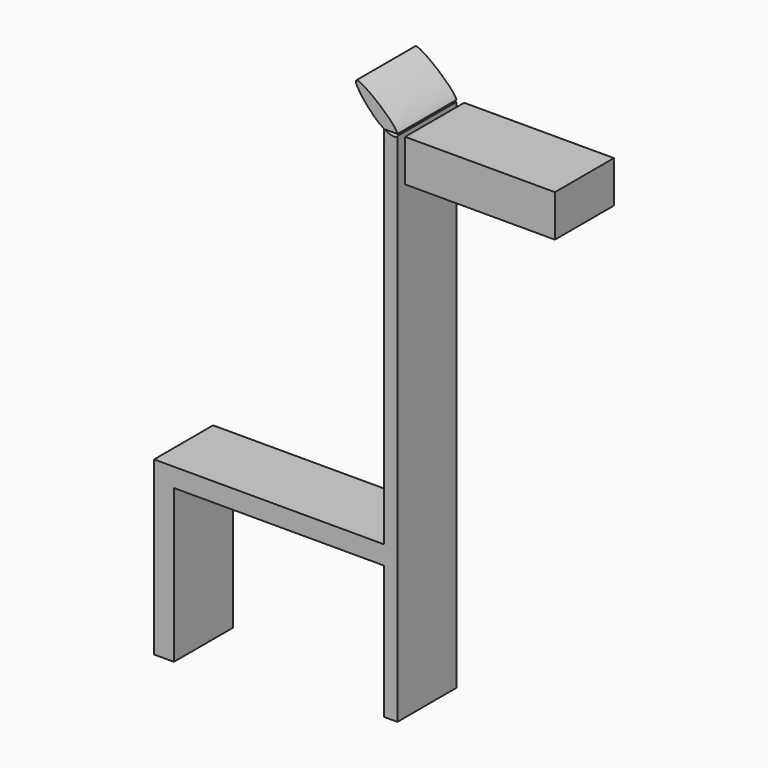
from build123d import *

# Parameters (mm, degrees)
F0_W     = 2.2751665674
F0_H     = 34.6962790936
F0_H_2   = 23.6996444874
F0_H_3   = 2.4647631217
F0_H_4   = 22.9412544286
F0_W_2   = 3.4127477556
F0_H_5   = 26.3540040469
F1_DEPTH = 12.7
F0_W_3   = 1.8959725276
F0_H_6   = 7.2046890855


with BuildPart() as f1:
    # F0 (on Front) → F1 (new body)
    with BuildSketch(Plane.XZ):
        with Locations((8.1526779104, 45.0293244794)):
            Rectangle(F0_W, F0_H)
        with Locations((8.1526779104, 15.8313626889)):
            Rectangle(F0_W, F0_H_2)
        with BuildLine():
            Line((7.0150946267, 62.3774640262), (9.2902611941, 62.3774640262))
            Line((9.2902611941, 62.3774640262), (9.2902611941, 64.1605353109))
            add(Edge.make_bspline(
                [(9.2902611941, 64.1605353109), (9.1335618574, 63.6997464733), (8.1491547275, 63.7852449602), (7.0150946267, 64.4630342722)],
                knots=[0.8245103323, 0.8245103323, 0.8245103323, 0.8245103323, 1, 1, 1, 1], degree=3))
            Line((7.0150946267, 64.4630342722), (7.0150946267, 62.3774640262))
        make_face()
        with Locations((8.1526779104, 2.7491588844)):
            Rectangle(F0_W, F0_H_3)
        Polygon((7.0150946267, -1.7063744599), (9.2902611941, -1.7063744599), (9.2902611941, 1.5167773236), (7.0150946267, 1.5167773236), (-32.6107107103, 1.5167773236), (-32.6107107103, -1.7063744599), (-29.1979629546, -1.7063744599), align=None)
        with Locations((8.1526779104, -13.1770016742)):
            Rectangle(F0_W, F0_H_4)
        with Locations((-30.9043368325, -14.8833764833)):
            Rectangle(F0_W_2, F0_H_5)
    extrude(amount=F1_DEPTH)


with BuildPart() as f1b:
    # F0 (on Front) → F1, piece 2 (new body)
    with BuildSketch(Plane.XZ):
        with BuildLine():
            Line((18.3322279583, 64.4630342722), (16.5536516477, 64.4630342722))
            ThreePointArc((16.5536516477, 64.4630342722), (16.3197251146, 60.7995982546), (19.5371083055, 62.567062676))
            ThreePointArc((19.5371083055, 62.567062676), (19.2104042244, 63.6902773643), (18.3322279583, 64.4630342722))
        make_face()
        with BuildLine():
            Line((16.5536516477, 64.4630342722), (12.5134121627, 64.4630342722))
            Line((12.5134121627, 64.4630342722), (12.5134121627, 57.2583451867))
            Line((12.5134121627, 57.2583451867), (31.0308237794, 57.2583451867))
            add(Edge.make_bspline(
                [(28.0593987554, 59.1532960534), (28.1995493071, 58.4423556179), (29.5783060091, 57.4592646397), (31.0308237794, 57.2583451867)],
                knots=[0, 0, 0, 0, 0.2197954008, 0.2197954008, 0.2197954008, 0.2197954008], degree=3))
            add(Edge.make_bspline(
                [(32.0415794849, 57.2583451867), (33.6607920173, 57.5084545772), (36.5329207315, 60.8323030514), (30.1164253974, 60.8116762265), (27.9300518274, 59.8094330449), (28.0593987554, 59.1532960534)],
                knots=[0.2709134065, 0.2709134065, 0.2709134065, 0.2709134065, 0.520871318, 0.7971477133, 1, 1, 1, 1], degree=3))
            Line((32.0415794849, 57.2583451867), (36.4026576281, 57.2583451867))
            Line((36.4026576281, 57.2583451867), (36.4026576281, 64.4630342722))
            Line((36.4026576281, 64.4630342722), (18.3322279583, 64.4630342722))
            ThreePointArc((18.3322279583, 64.4630342722), (19.2104042244, 63.6902773643), (19.5371083055, 62.567062676))
            ThreePointArc((19.5371083055, 62.567062676), (16.3197251146, 60.7995982546), (16.5536516477, 64.4630342722))
        make_face()
        with Locations((11.5654258989, 60.8606897295)):
            Rectangle(F0_W_3, F0_H_6)
        with BuildLine():
            add(Edge.make_bspline(
                [(28.0593987554, 59.1532960534), (28.1995493071, 58.4423556179), (29.5783060091, 57.4592646397), (31.0308237794, 57.2583451867)],
                knots=[0, 0, 0, 0, 0.2197954008, 0.2197954008, 0.2197954008, 0.2197954008], degree=3))
            Line((31.0308237794, 57.2583451867), (32.0415794849, 57.2583451867))
            add(Edge.make_bspline(
                [(32.0415794849, 57.2583451867), (33.6607920173, 57.5084545772), (36.5329207315, 60.8323030514), (30.1164253974, 60.8116762265), (27.9300518274, 59.8094330449), (28.0593987554, 59.1532960534)],
                knots=[0.2709134065, 0.2709134065, 0.2709134065, 0.2709134065, 0.520871318, 0.7971477133, 1, 1, 1, 1], degree=3))
        make_face()
    extrude(amount=F1_DEPTH)


with BuildPart() as f1c:
    # F0 (on Front) → F1, piece 3 (new body)
    with BuildSketch(Plane.XZ):
        with BuildLine():
            add(Edge.make_bspline(
                [(7.0150946267, 64.4630342722), (4.5763824236, 65.9205699576), (-2.001147026, 74.7371280941), (8.9018578762, 66.0171053089), (9.2902611941, 64.4630342722)],
                knots=[0, 0, 0, 0, 0.3773775251, 0.7928471179, 0.7928471179, 0.7928471179, 0.7928471179], degree=3))
            Line((7.0150946267, 64.4630342722), (9.2902611941, 64.4630342722))
        make_face()
    extrude(amount=F1_DEPTH)


solid = Compound([f1.part, f1b.part, f1c.part])
